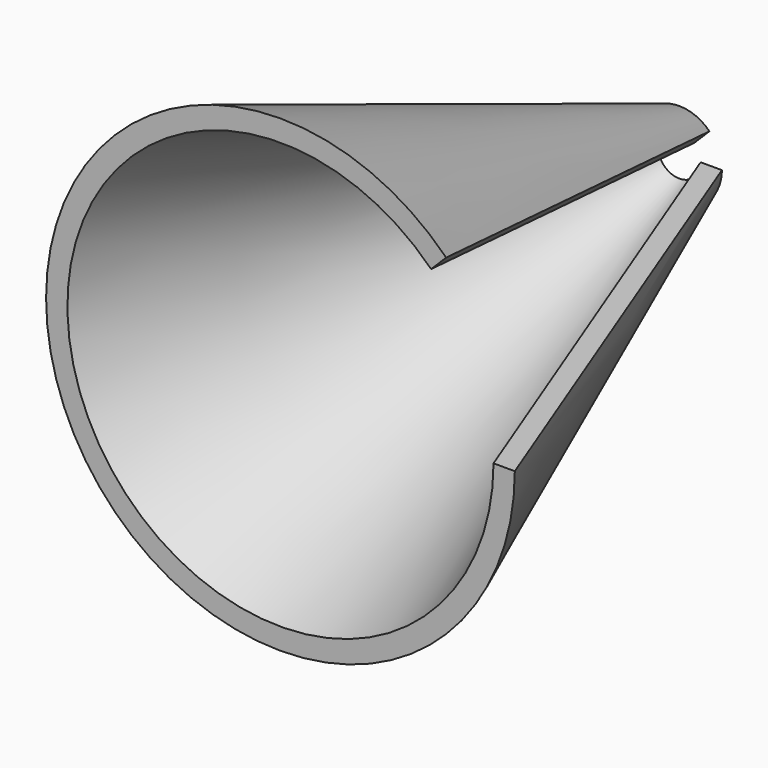
from build123d import *

# Parameters (mm, degrees)
F1_ANGLE = 315


with BuildPart() as f1:
    # F0 (on Top) → F1 (revolve)
    with BuildSketch(Plane.XY):
        Polygon((2.54, 29.718), (1.27, 29.718), (12.7, 0), (13.97, 0), align=None)
    revolve(axis=Axis((0, 16.51, 0), (0, 1, 0)), revolution_arc=F1_ANGLE)


solid = f1.part
